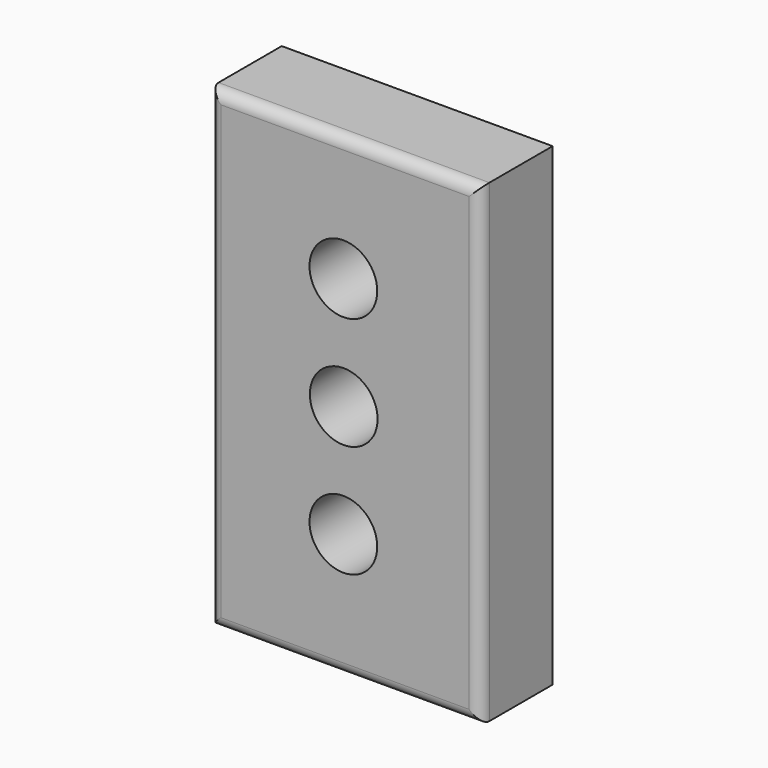
from build123d import *

# Parameters (mm, degrees)
F0_W     = 60
F0_H     = 105
F0_R     = 7.5
F1_DEPTH = 20
F2_R     = 2.5


with BuildPart() as f1:
    # F0 (on Front) → F1 (new body)
    with BuildSketch(Plane.XZ):
        with Locations((0.350268, -7.415067)):
            Rectangle(F0_W, F0_H)
        with Locations((0, -32.330134)):
            Circle(F0_R, mode=Mode.SUBTRACT)
        with Locations((0.077789, -7.415067)):
            Circle(F0_R, mode=Mode.SUBTRACT)
        with Locations((0, 17.5)):
            Circle(F0_R, mode=Mode.SUBTRACT)
    extrude(amount=F1_DEPTH)

    # F2
    f2_edges = [f1.edges().sort_by_distance(p)[0] for p in [
        (30.350268, -20, -7.415067),
        (0.350268, -20, 45.084933),
        (-29.649732, -20, -7.415067),
        (0.350268, -20, -59.915067),
    ]]
    fillet(f2_edges, radius=F2_R)


solid = f1.part
